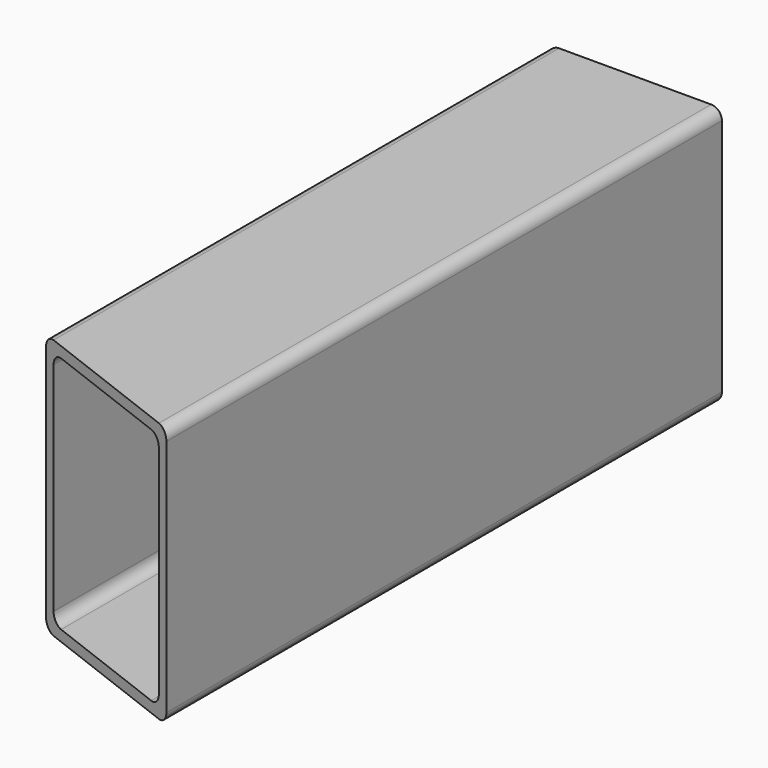
from build123d import *

# Parameters (mm, degrees)
F1_DEPTH      = 203.2
F3_DEPTH      = 38.101
F3_DEPTH_BACK = 38.101


with BuildPart() as f1:
    # F0 (on Front) → F1 (new body)
    with BuildSketch(Plane.XZ):
        with BuildLine():
            ThreePointArc((25.4, 34.925), (24.4700640303, 37.1700640303), (22.225, 38.1))
            Line((22.225, 38.1), (-22.225, 38.1))
            ThreePointArc((-22.225, 38.1), (-24.4700640303, 37.1700640303), (-25.4, 34.925))
            Line((-25.4, 34.925), (-25.4, -34.925))
            ThreePointArc((-25.4, -34.925), (-24.4700640303, -37.1700640303), (-22.225, -38.1))
            Line((-22.225, -38.1), (22.225, -38.1))
            ThreePointArc((22.225, -38.1), (24.4700640303, -37.1700640303), (25.4, -34.925))
            Line((25.4, -34.925), (25.4, 34.925))
        make_face()
        with BuildLine():
            Line((-19.05, 34.925), (19.05, 34.925))
            ThreePointArc((19.05, 34.925), (21.2950640303, 33.9950640303), (22.225, 31.75))
            Line((22.225, 31.75), (22.225, -31.75))
            ThreePointArc((22.225, -31.75), (21.2950640303, -33.9950640303), (19.05, -34.925))
            Line((19.05, -34.925), (-19.05, -34.925))
            ThreePointArc((-19.05, -34.925), (-21.2950640303, -33.9950640303), (-22.225, -31.75))
            Line((-22.225, -31.75), (-22.225, 31.75))
            ThreePointArc((-22.225, 31.75), (-21.2950640303, 33.9950640303), (-19.05, 34.925))
        make_face(mode=Mode.SUBTRACT)
    extrude(amount=F1_DEPTH)

    # F2 (on Top) → F3 (cut, two sides)
    with BuildSketch(Plane.XY) as f3_sk:
        Polygon((-25.4, -203.2), (25.4, -203.2), (-25.4, -183.6997070202), align=None)
    extrude(amount=-F3_DEPTH, mode=Mode.SUBTRACT)
    extrude(f3_sk.sketch, amount=F3_DEPTH_BACK, mode=Mode.SUBTRACT)


solid = f1.part
